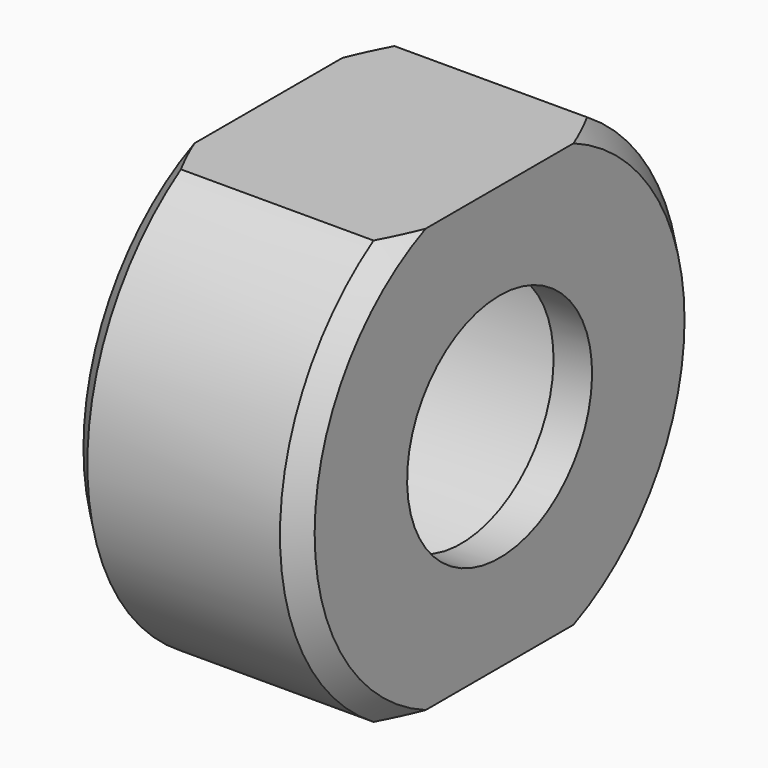
from build123d import *

# Parameters (mm, degrees)
F2_SIZE  = 1
F3_W     = 15.3355175093
F3_H     = 4.7520212233
F3_W_2   = 15.3147058821
F3_H_2   = 7.7273081392
F4_DEPTH = 12.5


with BuildPart() as f1:
    # F0 (on Front) → F1 (revolve)
    with BuildSketch(Plane.XZ):
        Polygon((0, 13), (0, 10), (10, 10), (10, 6), (12, 6), (12, 13), align=None)
    revolve(axis=Axis((0.2130177937, 0, 0), (1, 0, 0)))

    # F2
    f2_edges = [f1.edges().sort_by_distance(p)[0] for p in [
        (12, 0, -13),
        (0, 0, -13),
    ]]
    chamfer(f2_edges, length=F2_SIZE)

    # F3 (on Front) → F4 (cut, symmetric)
    with BuildSketch(Plane.XZ):
        with Locations((7.1024957381, 13.3760106117)):
            Rectangle(F3_W, F3_H)
        with Locations((7.2143123355, -14.8636540696)):
            Rectangle(F3_W_2, F3_H_2)
    extrude(amount=F4_DEPTH, both=True, mode=Mode.SUBTRACT)


solid = f1.part
